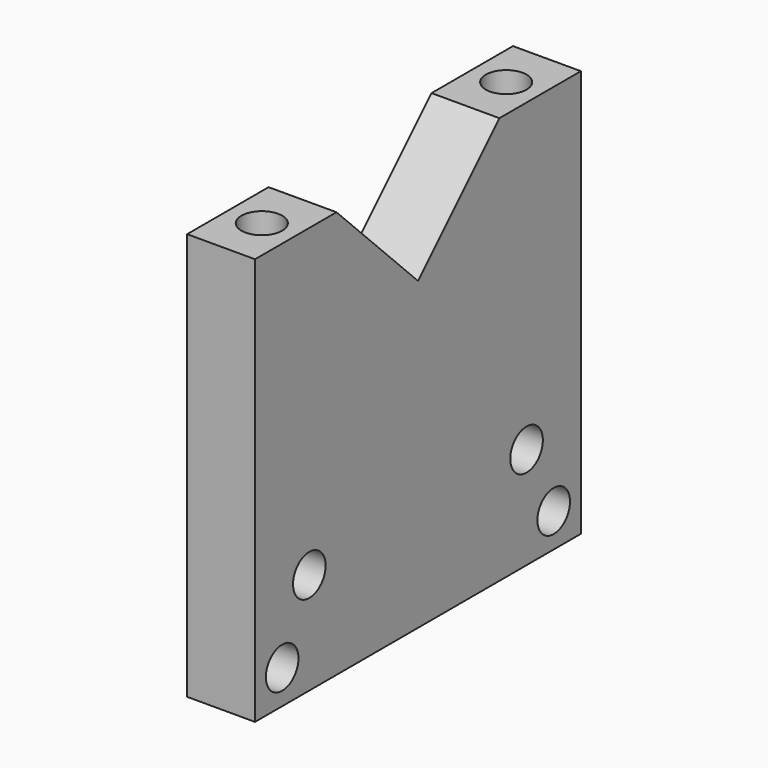
from build123d import *

# Parameters (mm, degrees)
F0_R     = 3
F1_DEPTH = 10
F2_R     = 3
F3_R     = 3
F4_DEPTH = 8


with BuildPart() as f1:
    # F0 (on Right) → F1 (new body)
    with BuildSketch(Plane.YZ):
        Polygon((-30, 60), (-30, 0), (30, 0), (30, 60), (15, 60), (0, 45), (-15, 60), align=None)
        with Locations((-25, 5)):
            Circle(F0_R, mode=Mode.SUBTRACT)
        with Locations((-20, 15)):
            Circle(F0_R, mode=Mode.SUBTRACT)
        with Locations((25, 5)):
            Circle(F0_R, mode=Mode.SUBTRACT)
        with Locations((20, 15)):
            Circle(F0_R, mode=Mode.SUBTRACT)
    extrude(amount=-F1_DEPTH)

    # F2 (on face) + F3 (on face) → F4 (cut)
    with BuildSketch(Plane.XY.offset(60)):
        with Locations((-5, -22.5)):
            Circle(F2_R)
    with BuildSketch(Plane.XY.offset(60)):
        with Locations((-5, 22.5)):
            Circle(F3_R)
    extrude(amount=-F4_DEPTH, mode=Mode.SUBTRACT)


solid = f1.part
